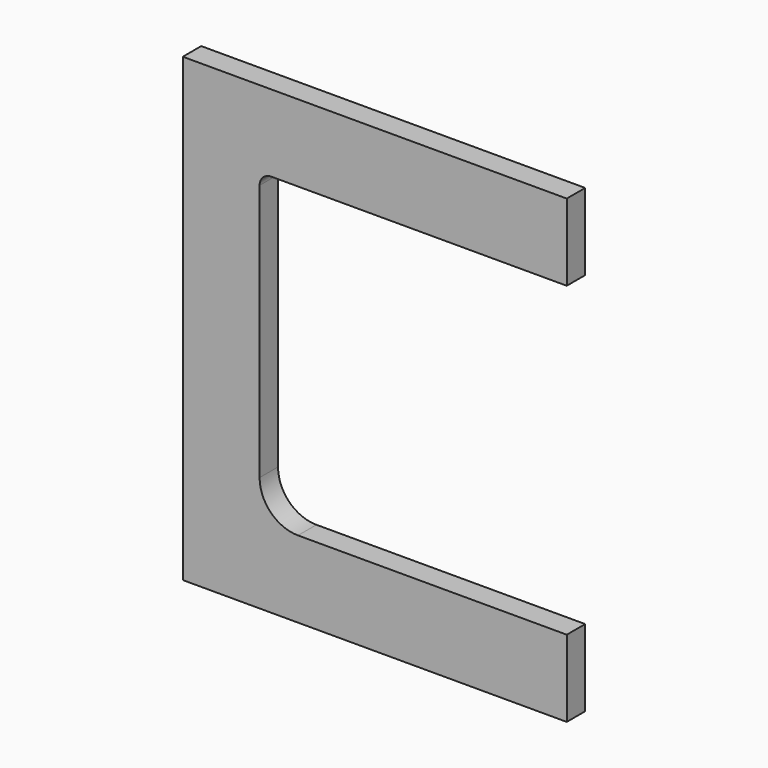
from build123d import *

# Parameters (mm, degrees)
F1_DEPTH = 6


with BuildPart() as f1:
    # F0 (on Front) → F1 (new body)
    with BuildSketch(Plane.XZ):
        with BuildLine():
            Line((100, 60), (0, 60))
            Line((0, 60), (0, -60))
            Line((0, -60), (100, -60))
            Line((100, -60), (100, -40))
            Line((100, -40), (30, -40))
            ThreePointArc((30, -40), (22.928932, -37.071068), (20, -30))
            Line((20, -30), (20, 37))
            ThreePointArc((20, 37), (20.87868, 39.12132), (23, 40))
            Line((23, 40), (100, 40))
            Line((100, 40), (100, 60))
        make_face()
    extrude(amount=F1_DEPTH)


solid = f1.part
